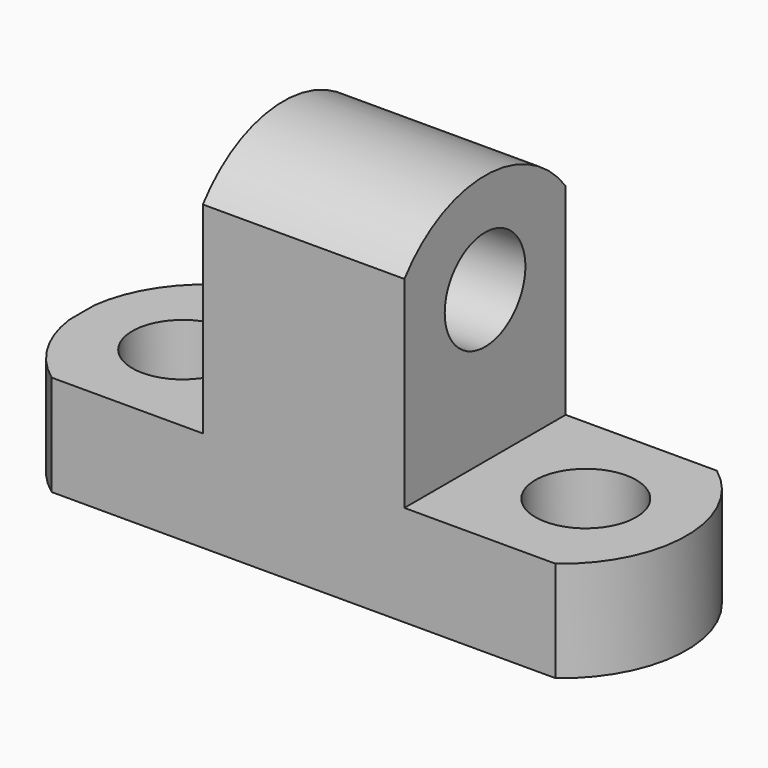
from build123d import *

# Parameters (mm, degrees)
F1_DEPTH  = 25.4
F2_R      = 6.35
F3_DEPTH  = 50.801
F5_DEPTH  = 50.801
F6_R      = 6.35
F7_DEPTH  = 12.701
F9_DEPTH  = 12.701
F11_DEPTH = 12.701


with BuildPart() as f1:
    # F0 (on Front) → F1 (new body)
    with BuildSketch(Plane.XZ):
        Polygon((-51.843755758, 12.7), (-51.843755758, 0), (24.356244242, 0), (24.356244242, 12.7), (-1.043755758, 12.7), (-1.043755758, 44.45), (-26.443755758, 44.45), (-26.443755758, 12.7), align=None)
    extrude(amount=F1_DEPTH)

    # F2 (on face) → F3 (cut, through all)
    with BuildSketch(Plane(origin=(-26.443755758, 0, 0), x_dir=(0, -1, 0), z_dir=(-1, 0, 0))):
        with Locations((12.7, 31.75)):
            Circle(F2_R)
    extrude(amount=-F3_DEPTH, mode=Mode.SUBTRACT)

    # F4 (on face) → F5 (cut, through all)
    with BuildSketch(Plane.YZ.offset(-1.043755758)):
        with BuildLine():
            ThreePointArc((-25.4, 38.1), (-12.6975472927, 44.4155540641), (0, 38.0901433527))
            Line((0, 38.0901433527), (0, 44.45))
            Line((0, 44.45), (-25.4, 44.45))
            Line((-25.4, 44.45), (-25.4, 38.1))
        make_face()
    extrude(amount=-F5_DEPTH, mode=Mode.SUBTRACT)

    # F6 (on face) → F7 (cut, through all)
    with BuildSketch(Plane.XY.offset(12.7)):
        with Locations((-39.143755758, -12.7)):
            Circle(F6_R)
        with Locations((11.656244242, -12.7)):
            Circle(F6_R)
    extrude(amount=-F7_DEPTH, mode=Mode.SUBTRACT)

    # F8 (on face) → F9 (cut, through all)
    with BuildSketch(Plane.XY.offset(12.7)):
        with BuildLine():
            ThreePointArc((-45.493755758, -25.4), (-49.7807083247, -20.6909850484), (-51.843755758, -14.6663174715))
            Line((-51.843755758, -14.6663174715), (-51.843755758, -25.4))
            Line((-51.843755758, -25.4), (-45.493755758, -25.4))
        make_face()
        with BuildLine():
            ThreePointArc((-51.843755758, -10.7336825285), (-49.7807083247, -4.7090149516), (-45.493755758, 0))
            Line((-45.493755758, 0), (-51.843755758, 0))
            Line((-51.843755758, 0), (-51.843755758, -10.7336825285))
        make_face()
    extrude(amount=-F9_DEPTH, mode=Mode.SUBTRACT)

    # F10 (on face) → F11 (cut, through all)
    with BuildSketch(Plane.XY.offset(12.7)):
        with BuildLine():
            ThreePointArc((18.006244242, 0), (24.3479033898, -12.7), (18.006244242, -25.4))
            Line((18.006244242, -25.4), (24.356244242, -25.4))
            Line((24.356244242, -25.4), (24.356244242, 0))
            Line((24.356244242, 0), (18.006244242, 0))
        make_face()
    extrude(amount=-F11_DEPTH, mode=Mode.SUBTRACT)


solid = f1.part
